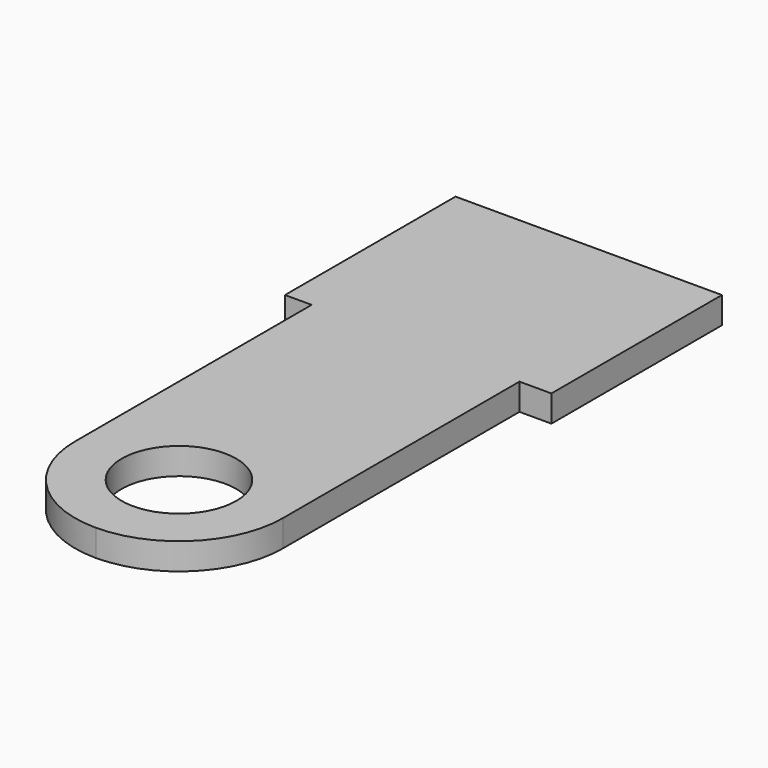
from build123d import *

# Parameters (mm, degrees)
F0_R     = 2.15
F0_W     = 7.8
F0_H     = 8
F0_W_2   = 1.2
F0_W_3   = 1
F1_DEPTH = 1
F2_ANGLE = 90


with BuildPart() as f1:
    # F0 (on Front) → F1 (new body)
    with BuildSketch(Plane.XZ):
        with BuildLine():
            Line((0, 19.1), (0, 8))
            Line((0, 8), (7.8, 8))
            Line((7.8, 8), (7.8, 19.1))
            ThreePointArc((7.8, 19.1), (6.657716, 21.857716), (3.9, 23))
            ThreePointArc((3.9, 23), (1.142284, 21.857716), (0, 19.1))
        make_face()
        with Locations((3.9, 19.1)):
            Circle(F0_R, mode=Mode.SUBTRACT)
        with Locations((3.9, 4)):
            Rectangle(F0_W, F0_H)
        with Locations((8.4, 4)):
            Rectangle(F0_W_2, F0_H)
        with Locations((-0.5, 4)):
            Rectangle(F0_W_3, F0_H)
    extrude(amount=F1_DEPTH)


with BuildPart() as f1_1:
    # F2: moved
    add(f1.part.rotate(Axis((4, -1, 0), (1, 0, 0)), F2_ANGLE))


solid = f1_1.part
